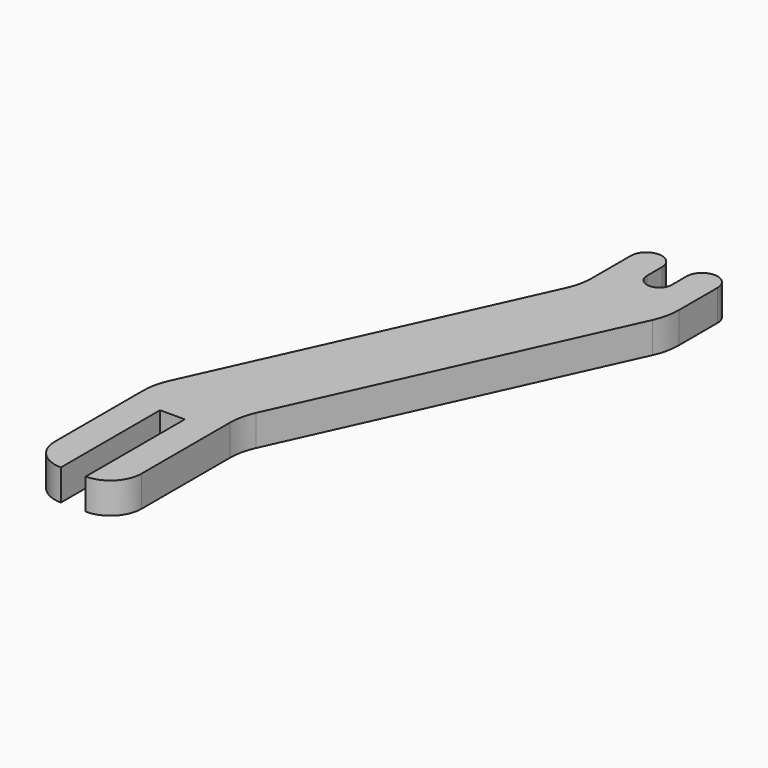
from build123d import *

# Parameters (mm, degrees)
F1_DEPTH = 10


with BuildPart() as f1:
    # F0 (on Top) → F1 (new body)
    with BuildSketch(Plane.XY):
        with BuildLine():
            Line((12.618329, 77.060387), (12.618329, 61.392571))
            ThreePointArc((12.618329, 61.392571), (12.165024, 57.158577), (10.825658, 53.116512))
            Line((10.825658, 53.116512), (-35.589001, -48.995738))
            ThreePointArc((-35.589001, -48.995738), (-36.928367, -53.037803), (-37.381671, -57.271797))
            Line((-37.381671, -57.271797), (-37.381671, -92.939613))
            ThreePointArc((-37.381671, -92.939613), (-34.452739, -100.010681), (-27.381671, -102.939613))
            Line((-27.381671, -102.939613), (-27.381671, -62.939613))
            Line((-27.381671, -62.939613), (-19.381671, -62.939613))
            Line((-19.381671, -62.939613), (-19.381671, -102.939613))
            ThreePointArc((-19.381671, -102.939613), (-12.310603, -100.010681), (-9.381671, -92.939613))
            Line((-9.381671, -92.939613), (-9.381671, -57.271797))
            ThreePointArc((-9.381671, -57.271797), (-8.928367, -53.037803), (-7.589001, -48.995738))
            Line((-7.589001, -48.995738), (38.825658, 53.116512))
            ThreePointArc((38.825658, 53.116512), (40.165024, 57.158577), (40.618329, 61.392571))
            Line((40.618329, 61.392571), (40.618329, 77.060387))
            ThreePointArc((40.618329, 77.060387), (39.153863, 80.595921), (35.618329, 82.060387))
            ThreePointArc((35.618329, 82.060387), (32.082795, 80.595921), (30.618329, 77.060387))
            Line((30.618329, 77.060387), (30.618329, 71.060387))
            ThreePointArc((30.618329, 71.060387), (29.446756, 68.23196), (26.618329, 67.060387))
            ThreePointArc((26.618329, 67.060387), (23.789902, 68.23196), (22.618329, 71.060387))
            Line((22.618329, 71.060387), (22.618329, 77.060387))
            ThreePointArc((22.618329, 77.060387), (21.153863, 80.595921), (17.618329, 82.060387))
            ThreePointArc((17.618329, 82.060387), (14.082795, 80.595921), (12.618329, 77.060387))
        make_face()
    extrude(amount=F1_DEPTH)


solid = f1.part
